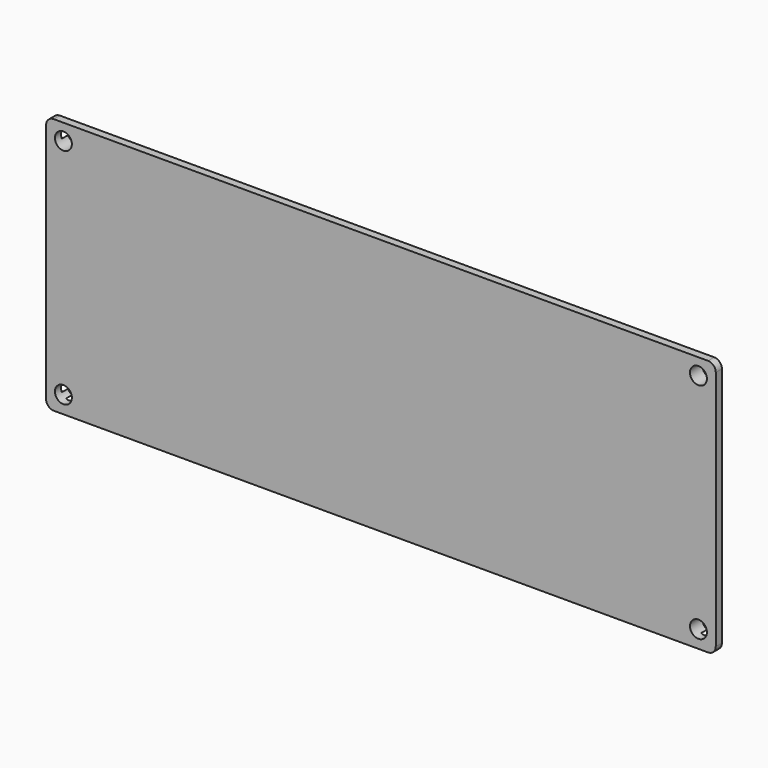
from build123d import *

# Parameters (mm, degrees)
PAD004_DEPTH    = 2
SKETCH008_W     = 169
SKETCH008_H     = 61.7
PAD005_DEPTH    = 2
SKETCH009_R     = 2.2
POCKET002_DEPTH = 4.001
SKETCH012_W     = 159
SKETCH012_H     = 51.7
POCKET005_DEPTH = 2


with BuildPart() as part:
    # Sketch007 → Pad004 (new body)
    with BuildSketch(Plane.XZ):
        with BuildLine():
            Line((-2, 62.7), (-2, 0))
            ThreePointArc((-2, 0), (-1.414214, -1.414214), (0, -2))
            Line((0, -2), (170, -2))
            ThreePointArc((170, -2), (171.414214, -1.414214), (172, 0))
            Line((172, 0), (172, 62.7))
            ThreePointArc((172, 62.7), (171.414214, 64.114214), (170, 64.7))
            Line((170, 64.7), (0, 64.7))
            ThreePointArc((0, 64.7), (-1.414214, 64.114214), (-2, 62.7))
        make_face()
    extrude(amount=PAD004_DEPTH)

    # Sketch008 (on Face9 of Pad004) → Pad005 (join)
    with BuildSketch(Plane(origin=(0, 0, 0), x_dir=(1, 0, 0), z_dir=(0, 1, 0))):
        with Locations((85, -31.35)):
            Rectangle(SKETCH008_W, SKETCH008_H)
    extrude(amount=PAD005_DEPTH)

    # Sketch009 (on Face5 of Pad005) → Pocket002 (cut, through all)
    with BuildSketch(Plane.XZ.offset(2)):
        with Locations((2.5, 2.5)):
            Circle(SKETCH009_R)
        with Locations((2.5, 60.5)):
            Circle(SKETCH009_R)
        with Locations((167.5, 60.5)):
            Circle(SKETCH009_R)
        with Locations((167.5, 2.5)):
            Circle(SKETCH009_R)
    extrude(amount=-POCKET002_DEPTH, mode=Mode.SUBTRACT)

    # Sketch012 (on Face28 of Pocket002) → Pocket005 (cut)
    with BuildSketch(Plane(origin=(0, 2, 0), x_dir=(1, 0, 0), z_dir=(0, 1, 0))):
        with Locations((85, -31.35)):
            Rectangle(SKETCH012_W, SKETCH012_H)
    extrude(amount=-POCKET005_DEPTH, mode=Mode.SUBTRACT)


with BuildPart() as part_1:
    # Body003 placement: moved
    add(part.part.moved(Location((-5, -5, 0))))


solid = part_1.part
